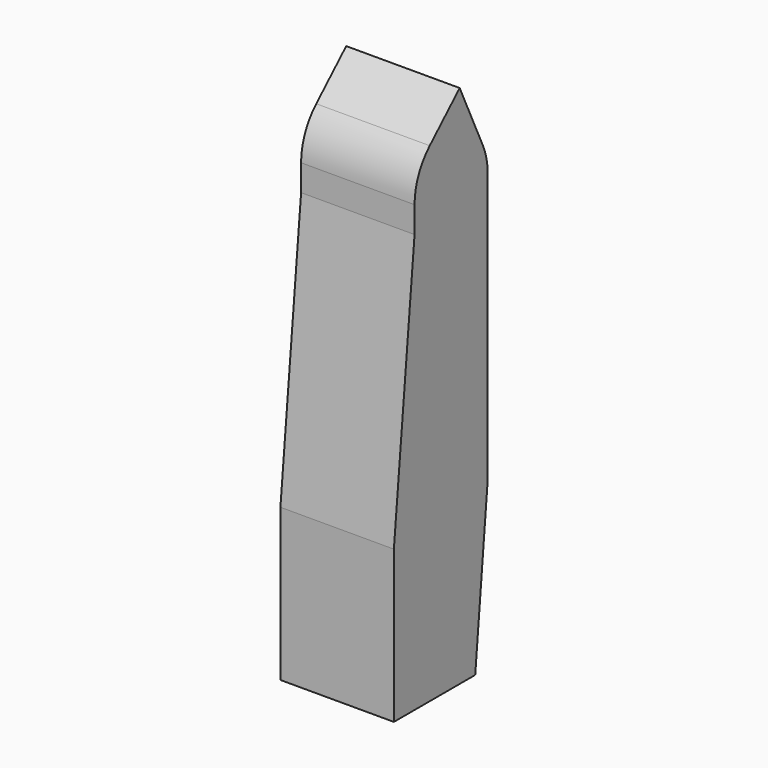
from build123d import *

# Parameters (mm, degrees)
F0_W     = 9.3000009656
F0_H     = 9.5999985933
F1_DEPTH = 43
F3_DEPTH = 9.3010009656
F4_R     = 5


with BuildPart() as f1:
    # F0 (on Top) → F1 (new body)
    with BuildSketch(Plane.XY):
        with Locations((-54.4500015676, 53.8500025868)):
            Rectangle(F0_W, F0_H)
    extrude(amount=F1_DEPTH)

    # F2 (on face) → F3 (cut, through all)
    with BuildSketch(Plane(origin=(-59.1000020504, 0, 0), x_dir=(0, -1, 0), z_dir=(-1, 0, 0))):
        Polygon((-49.0500032902, 43), (-55.7899177074, 43), (-51.1679239571, 38.6058986187), (-51.1679239571, 34.302663058), (-49.0500032902, 12.4677242711), align=None)
        Polygon((-58.6500018835, 36.8527285755), (-55.7899177074, 43), (-58.6500018835, 43), align=None)
        Polygon((-57.3837086558, 0), (-58.6500018835, 13.4239988402), (-58.6500018835, 0), align=None)
    extrude(amount=-F3_DEPTH, mode=Mode.SUBTRACT)

    # F4
    f4_edges = [f1.edges().sort_by_distance(p)[0] for p in [
        (-54.450002, 51.167924, 38.605899),
        (-54.450002, 58.650002, 36.852729),
    ]]
    fillet(f4_edges, radius=F4_R)


solid = f1.part
